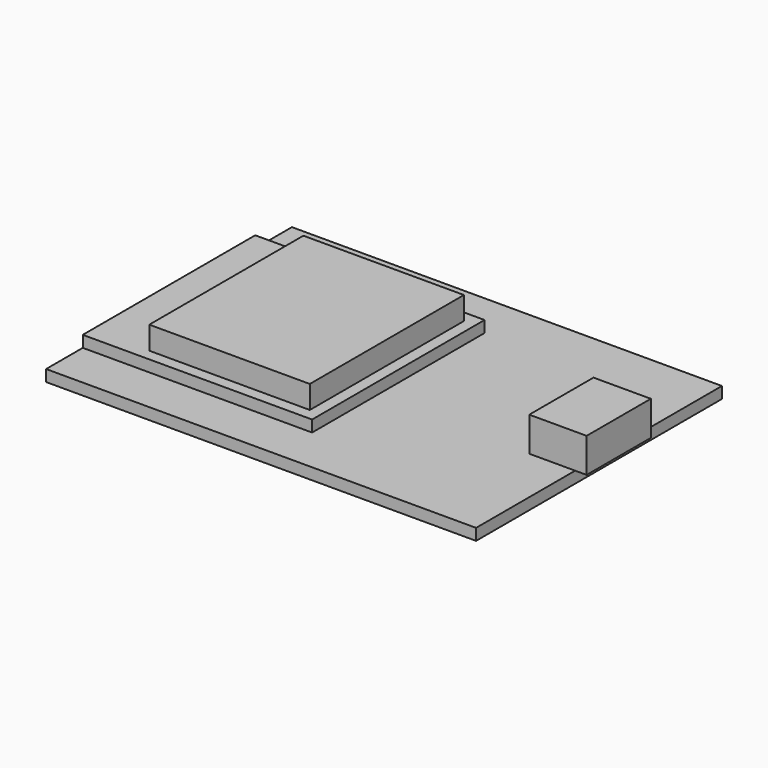
from build123d import *

# Parameters (mm, degrees)
F0_W     = 37.5
F0_H     = 26.8
F1_DEPTH = 1
F2_W     = 5
F2_H     = 7
F3_DEPTH = 3
F4_W     = 20
F4_H     = 18.8
F5_DEPTH = 1
F6_W     = 14
F6_H     = 16.8
F7_DEPTH = 2
F8_DEPTH = 2


with BuildPart() as f1:
    # F0 (on Top) → F1 (new body)
    with BuildSketch(Plane.XY):
        with Locations((18.75, 13.4)):
            Rectangle(F0_W, F0_H)
    extrude(amount=F1_DEPTH)

    # F2 (on face) → F3 (join)
    with BuildSketch(Plane.XY.offset(1)):
        with Locations((36, 14.3)):
            Rectangle(F2_W, F2_H)
    extrude(amount=F3_DEPTH)

    # F4 (on face) → F5 (join)
    with BuildSketch(Plane.XY.offset(1)):
        with Locations((10, 13.4)):
            Rectangle(F4_W, F4_H)
    extrude(amount=F5_DEPTH)

    # F6 (on face) → F7 (join)
    with BuildSketch(Plane.XY.offset(2)):
        with Locations((12, 13.4)):
            Rectangle(F6_W, F6_H)
    extrude(amount=F7_DEPTH)

    # F6 (on face) → F8 (join)
    with BuildSketch(Plane.XY.offset(2)):
        with Locations((12, 13.4)):
            Rectangle(F6_W, F6_H)
    extrude(amount=F8_DEPTH)


solid = f1.part
